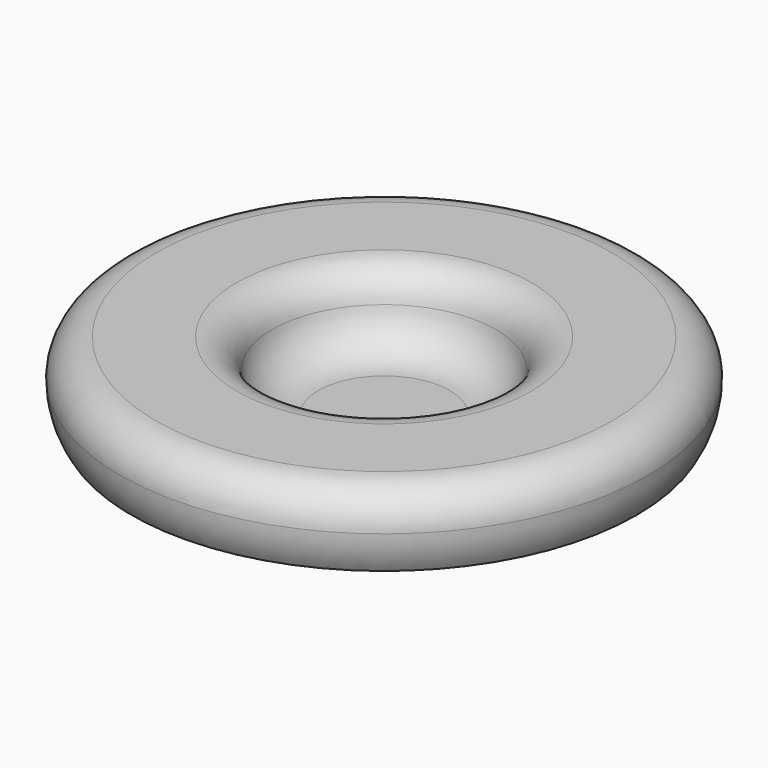
from build123d import *


with BuildPart() as f1:
    # F0 (on Front) → F1 (revolve)
    with BuildSketch(Plane.XZ):
        with BuildLine():
            Line((-5.916842, 0), (4.14037, 0))
            Line((4.14037, 0), (4.722249, 3.3))
            ThreePointArc((4.722249, 3.3), (6.434292, 2.265345), (8.103578, 1.163037))
            ThreePointArc((8.103578, 1.163037), (8.564469, 2.187641), (8.722249, 3.3))
            ThreePointArc((8.722249, 3.3), (8.136462, 4.714214), (6.722249, 5.3))
            Line((6.722249, 5.3), (2.252149, 5.3))
            ThreePointArc((2.252149, 5.3), (0.96678, 4.832262), (0.282627, 3.647826))
            ThreePointArc((0.282627, 3.647826), (-0.606771, 2.10806), (-2.277751, 1.5))
            Line((-2.277751, 1.5), (-5.916842, 1.5))
            Line((-5.916842, 1.5), (-5.916842, 0))
        make_face()
    revolve(axis=Axis((-5.916842, 0, 0.75), (0, 0, 1)))


solid = f1.part
